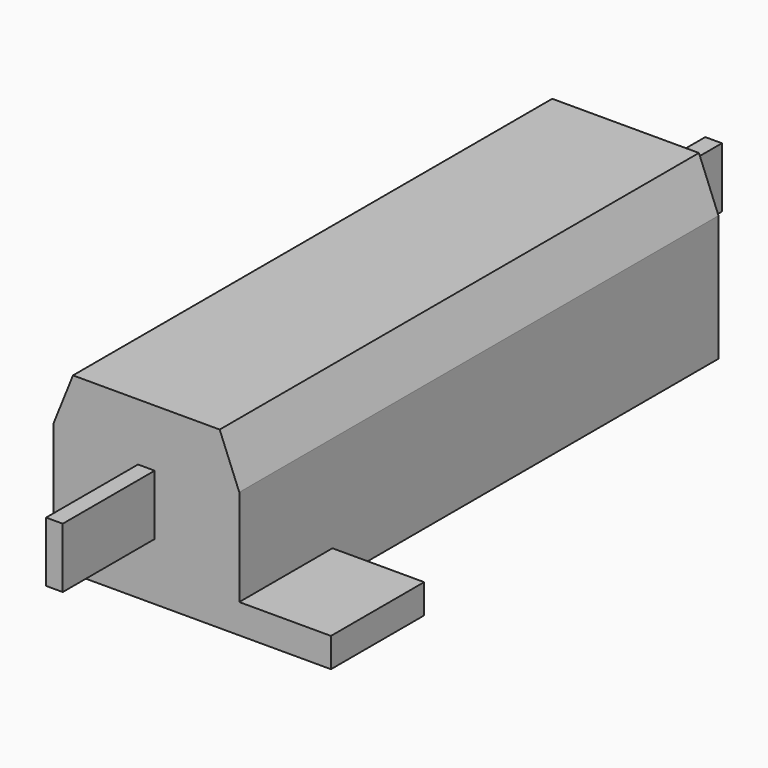
from build123d import *

# Parameters (mm, degrees)
F1_DEPTH      = 49
F2_W          = 7.5
F2_H          = 9.53
F3_DEPTH      = 2.4
F4_W          = 1.362546
F4_H          = 4.923334
F5_DEPTH      = 9
F5_DEPTH_BACK = 58.4


with BuildPart() as f1:
    # F0 (on Front) → F1 (new body)
    with BuildSketch(Plane.XZ):
        Polygon((-15.2, 0), (0, 0), (0, 2.41), (0, 10.307252), (-1.6, 14.3), (-13.6, 14.3), (-15.2, 10.307252), (-15.2, 2.41), align=None)
    extrude(amount=F1_DEPTH)

    # F2 (on face) → F3 (join)
    with BuildSketch(Plane(origin=(0, 0, 0), x_dir=(1, 0, 0), z_dir=(0, 0, -1))):
        with Locations((-18.95, 4.765)):
            Rectangle(F2_W, F2_H)
        with Locations((3.75, 44.235)):
            Rectangle(F2_W, F2_H)
    extrude(amount=-F3_DEPTH)

    # F4 (on face) → F5 (join, two sides)
    with BuildSketch(Plane(origin=(0, 0, 0), x_dir=(-1, 0, 0), z_dir=(0, 1, 0))) as f5_sk:
        with Locations((7.6, 7.15)):
            Rectangle(F4_W, F4_H)
    extrude(amount=F5_DEPTH)
    extrude(f5_sk.sketch, amount=-F5_DEPTH_BACK)


solid = f1.part
